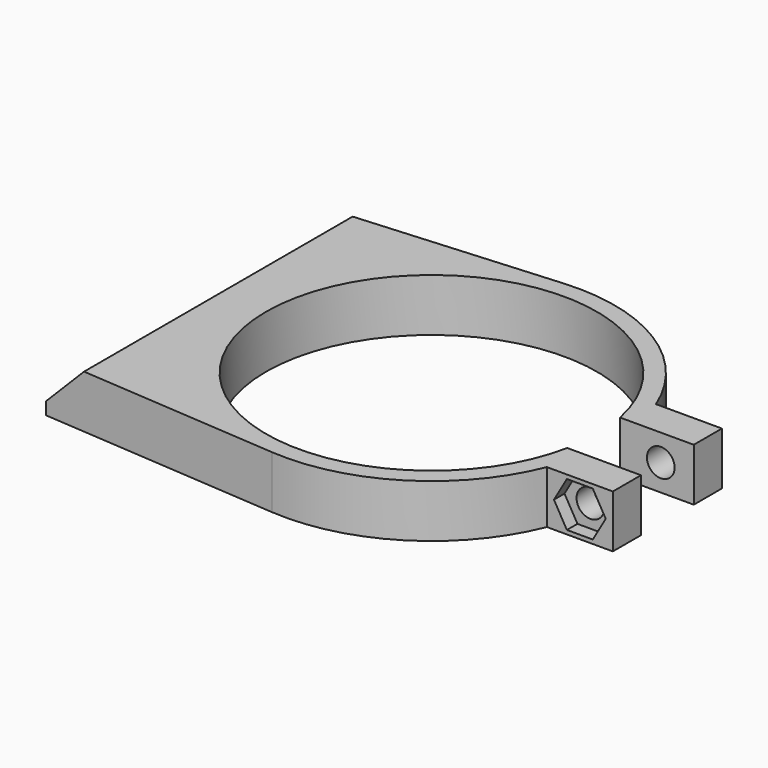
from build123d import *

# Parameters (mm, degrees)
F1_DEPTH  = 12
F3_DEPTH  = 50
F4_R      = 3.15
F5_DEPTH  = 80.6785650794
F8_DEPTH  = 74.6785650794
F9_R      = 3.15
F10_DEPTH = 57.126
F12_DEPTH = 3


with BuildPart() as f1:
    # F0 (on Top) → F1 (new body)
    with BuildSketch(Plane.XY):
        with BuildLine():
            ThreePointArc((36.8699149036, -7.5), (-37.625, 0), (36.8699149036, 7.5))
            Line((36.8699149036, 7.5), (53.6314719497, 7.5))
            Line((53.6314719497, 7.5), (53.6314719497, 15.5))
            Line((53.6314719497, 15.5), (38.6314719497, 15.5))
            ThreePointArc((38.6314719497, 15.5), (22.0370581838, 35.3130102314), (-3.0526031231, 41.5129165342))
            ThreePointArc((-3.0526031231, 41.5129165342), (-41.625, 0), (-3.0526031231, -41.5129165342))
            ThreePointArc((-3.0526031231, -41.5129165342), (22.0370581838, -35.3130102314), (38.6314719497, -15.5))
            Line((38.6314719497, -15.5), (53.6314719497, -15.5))
            Line((53.6314719497, -15.5), (53.6314719497, -7.5))
            Line((53.6314719497, -7.5), (36.8699149036, -7.5))
        make_face()
        with BuildLine():
            ThreePointArc((-3.0526031231, -41.5129165342), (-41.625, 0), (-3.0526031231, 41.5129165342))
            Line((-3.0526031231, 41.5129165342), (-57.625, 37.5))
            Line((-57.625, 37.5), (-57.625, -37.5))
            Line((-57.625, -37.5), (-3.0526031231, -41.5129165342))
        make_face()
    extrude(amount=F1_DEPTH)

    # F2 (on Front) → F3 (cut, symmetric)
    with BuildSketch(Plane.XZ):
        Polygon((-57.6562229203, 26.0493437853), (-57.6562229203, 2.8076118446), (-48.4638347648, 12), (-48.4638347648, 26.0493437853), align=None)
    extrude(amount=F3_DEPTH, both=True, mode=Mode.SUBTRACT)

    # F4 (on face) → F5 (cut, through all)
    with BuildSketch(Plane(origin=(-30.2319173824, 0, 30.2319173824), x_dir=(0.7071067812, 0, 0.7071067812), z_dir=(-0.7071067812, 0, 0.7071067812))):
        with Locations((-32.2617468916, 30)):
            Circle(F4_R)
        with Locations((-32.2617468916, -30)):
            Circle(F4_R)
    extrude(amount=-F5_DEPTH, mode=Mode.SUBTRACT)

    # F7 (on offset) → F8 (cut, through all)
    with BuildSketch(Plane(origin=(-25.9892766953, 0, 25.9892766953), x_dir=(0.7071067812, 0, 0.7071067812), z_dir=(-0.7071067812, 0, 0.7071067812))):
        Polygon((-32.2617468916, 24.1110272543), (-27.1617468916, 27.0555136271), (-27.1617468916, 32.9444863729), (-32.2617468916, 35.8889727457), (-37.3617468916, 32.9444863729), (-37.3617468916, 27.0555136271), align=None)
        Polygon((-32.2617468916, -35.8889727457), (-27.1617468916, -32.9444863729), (-27.1617468916, -27.0555136271), (-32.2617468916, -24.1110272543), (-37.3617468916, -27.0555136271), (-37.3617468916, -32.9444863729), align=None)
    extrude(amount=-F8_DEPTH, mode=Mode.SUBTRACT)

    # F9 (on face) → F10 (cut, through all)
    with BuildSketch(Plane.XZ.offset(15.5)):
        with Locations((46.1314719497, 6)):
            Circle(F9_R)
    extrude(amount=-F10_DEPTH, mode=Mode.SUBTRACT)

    # F11 (on face) → F12 (cut)
    with BuildSketch(Plane.XZ.offset(15.5)):
        Polygon((49.0759583226, 0.9), (52.0204446954, 6), (49.0759583226, 11.1), (43.1869855768, 11.1), (40.242499204, 6), (43.1869855768, 0.9), align=None)
    extrude(amount=-F12_DEPTH, mode=Mode.SUBTRACT)


solid = f1.part
